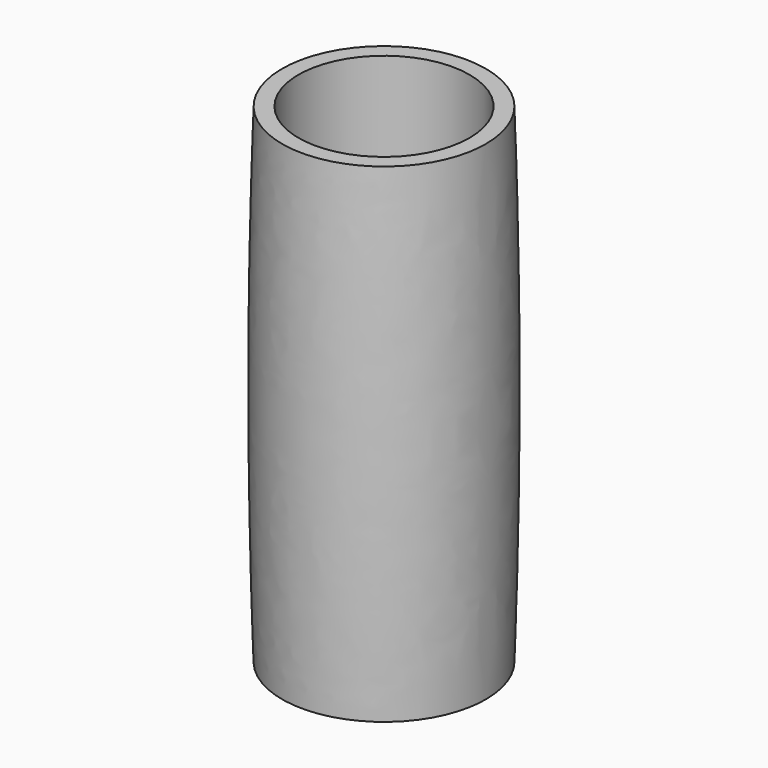
from build123d import *

# Parameters (mm, degrees)
SKETCH001_R  = 12.5
SKETCH_R     = 13
SKETCH002_R  = 12.5
SKETCH003_R  = 10.5
POCKET_DEPTH = 60.001


with BuildPart() as part:
    # Sketch001 → AdditiveLoft section 0
    with BuildSketch(Plane.XY):
        Circle(SKETCH001_R)
    # Sketch → AdditiveLoft section 1
    with BuildSketch(Plane.XY.offset(30)):
        Circle(SKETCH_R)
    # Sketch002 → AdditiveLoft section 2
    with BuildSketch(Plane.XY.offset(60)):
        Circle(SKETCH002_R)
    loft()

    # Sketch003 (on Face3 of AdditiveLoft) → Pocket (cut, through all)
    with BuildSketch(Plane.XY.offset(60)):
        Circle(SKETCH003_R)
    extrude(amount=-POCKET_DEPTH, mode=Mode.SUBTRACT)


solid = part.part
